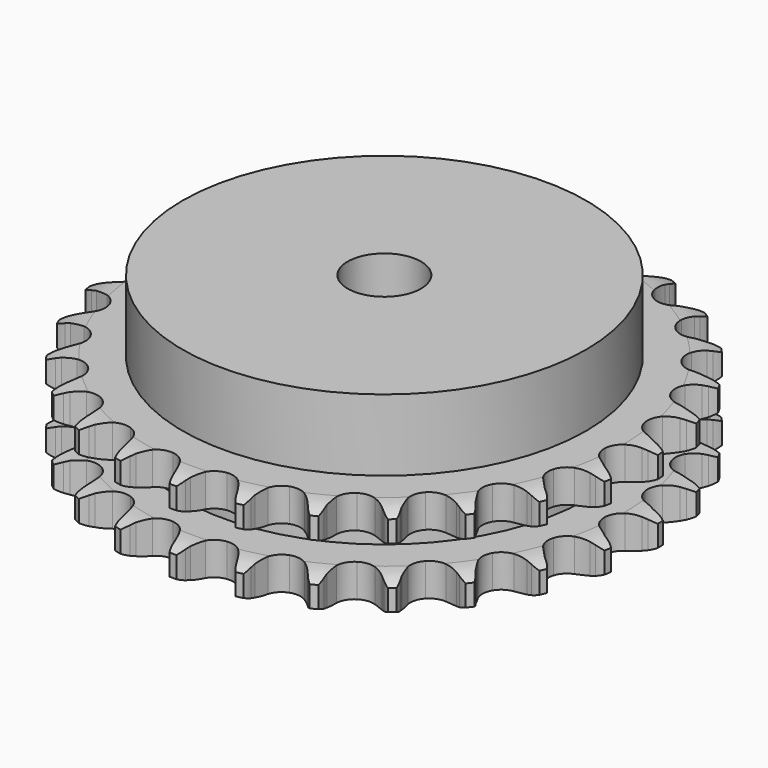
from build123d import *

# Parameters (mm, degrees)
PAD_DEPTH         = 25.5
SKETCH001_R       = 55
PAD001_DEPTH      = 45
SKETCH002_R       = 10
POCKET_DEPTH      = 0.001
POCKET_DEPTH_BACK = 45.001


with BuildPart() as part:
    # Sprocket → Pad (new body)
    with BuildSketch(Plane.XY):
        with BuildLine():
            ThreePointArc((-8.514292, 72.844425), (-7.272709, 71.413172), (-6.387729, 69.737814))
            Line((-6.387729, 69.737814), (-5.892963, 68.468562))
            ThreePointArc((-5.892963, 68.468562), (-5.105994, 66.802044), (-4.095745, 65.260615))
            ThreePointArc((-4.095745, 65.260615), (-2.286088, 63.764422), (0, 63.228459))
            ThreePointArc((0, 63.228459), (2.286088, 63.764422), (4.095745, 65.260615))
            ThreePointArc((4.095745, 65.260615), (5.105994, 66.802044), (5.892963, 68.468562))
            Line((5.892963, 68.468562), (6.387729, 69.737814))
            ThreePointArc((6.387729, 69.737814), (7.272709, 71.413172), (8.514292, 72.844425))
            ThreePointArc((8.514292, 72.844425), (9.392338, 71.165423), (9.8671, 69.331134))
            Line((9.8671, 69.331134), (10.05582, 67.981994))
            ThreePointArc((10.05582, 67.981994), (10.43725, 66.178909), (11.06479, 64.446051))
            ThreePointArc((11.06479, 64.446051), (12.480622, 62.572852), (14.581486, 61.524128))
            ThreePointArc((14.581486, 61.524128), (16.929554, 61.518436), (19.035477, 62.556963))
            Line((19.035477, 62.556963), (21.524055, 65.263972))
            ThreePointArc((21.524055, 65.263972), (21.896732, 65.834381), (22.298194, 66.38491))
            ThreePointArc((22.298194, 66.38491), (23.545683, 67.811018), (25.083869, 68.917364))
            ThreePointArc((25.083869, 68.917364), (25.551042, 67.081127), (25.58999, 65.186794))
            Line((25.58999, 65.186794), (25.46249, 63.830499))
            ThreePointArc((25.46249, 63.830499), (25.41782, 61.988052), (25.628819, 60.157183))
            ThreePointArc((25.628819, 60.157183), (26.574498, 58.007963), (28.376881, 56.503015))
            ThreePointArc((28.376881, 56.503015), (30.660343, 55.955975), (32.949002, 56.480849))
            Line((32.949002, 56.480849), (35.994779, 58.540985))
            ThreePointArc((35.994779, 58.540985), (36.488956, 59.010073), (37.006557, 59.453179))
            ThreePointArc((37.006557, 59.453179), (38.549303, 60.553155), (40.301168, 61.274949))
            ThreePointArc((40.301168, 61.274949), (40.332283, 59.380471), (39.933318, 57.528218))
            Line((39.933318, 57.528218), (39.496472, 56.237885))
            ThreePointArc((39.496472, 56.237885), (39.028108, 54.455404), (38.811192, 52.625226))
            ThreePointArc((38.811192, 52.625226), (39.235736, 50.31585), (40.64247, 48.43581))
            ThreePointArc((40.64247, 48.43581), (42.738225, 47.376913), (45.086238, 47.359837))
            Line((45.086238, 47.359837), (48.525015, 48.662038))
            ThreePointArc((48.525015, 48.662038), (49.11405, 49.004516), (49.719887, 49.316312))
            ThreePointArc((49.719887, 49.316312), (51.474721, 50.030856), (53.34582, 50.329186))
            ThreePointArc((53.34582, 50.329186), (52.9392, 48.478598), (52.12383, 46.76828))
            Line((52.12383, 46.76828), (51.401188, 45.613472))
            ThreePointArc((51.401188, 45.613472), (50.53438, 43.98705), (49.901243, 42.256229))
            ThreePointArc((49.901243, 42.256229), (49.781765, 39.911197), (50.717014, 37.757418))
            ThreePointArc((50.717014, 37.757418), (52.512079, 36.243749), (54.792862, 35.685645))
            Line((54.792862, 35.685645), (58.439255, 36.159708))
            ThreePointArc((58.439255, 36.159708), (59.091394, 36.357113), (59.752805, 36.520789))
            ThreePointArc((59.752805, 36.520789), (61.625122, 36.81138), (63.514586, 36.670163))
            ThreePointArc((63.514586, 36.670163), (62.692152, 34.963231), (61.504334, 33.487053))
            Line((61.504334, 33.487053), (60.534853, 32.530026))
            ThreePointArc((60.534853, 32.530026), (59.316331, 31.147344), (58.301106, 29.609188))
            ThreePointArc((58.301106, 29.609188), (57.644047, 27.35492), (58.05739, 25.043513))
            ThreePointArc((58.05739, 25.043513), (59.454993, 23.156675), (61.54559, 22.08763))
            Line((61.54559, 22.08763), (65.20302, 21.707999))
            ThreePointArc((65.20302, 21.707999), (65.883105, 21.749689), (66.564434, 21.756421))
            ThreePointArc((66.564434, 21.756421), (68.453298, 21.607393), (70.259264, 21.034243))
            ThreePointArc((70.259264, 21.034243), (69.065352, 19.562988), (67.569122, 18.400529))
            Line((67.569122, 18.400529), (66.405069, 17.692877))
            ThreePointArc((66.405069, 17.692877), (64.900524, 16.628476), (63.557941, 15.365908))
            ThreePointArc((63.557941, 15.365908), (62.398723, 13.323933), (62.267877, 10.979507))
            ThreePointArc((62.267877, 10.979507), (63.192673, 8.821219), (64.980378, 7.298865))
            Line((64.980378, 7.298865), (68.451673, 6.086005))
            ThreePointArc((68.451673, 6.086005), (69.123041, 5.969734), (69.787557, 5.819159))
            ThreePointArc((69.787557, 5.819159), (71.591138, 5.238547), (73.216246, 4.264361))
            ThreePointArc((73.216246, 4.264361), (71.715222, 3.108098), (69.991242, 2.322029))
            Line((69.991242, 2.322029), (68.69537, 1.9019))
            ThreePointArc((68.69537, 1.9019), (66.985912, 1.213162), (65.388351, 0.294249))
            ThreePointArc((65.388351, 0.294249), (63.789467, -1.425352), (63.121487, -3.676408))
            ThreePointArc((63.121487, -3.676408), (63.523619, -5.989791), (64.912058, -7.883383))
            Line((64.912058, -7.883383), (68.010079, -9.864086))
            ThreePointArc((68.010079, -9.864086), (68.636536, -10.132051), (69.248415, -10.431815))
            ThreePointArc((69.248415, -10.431815), (70.869481, -11.412712), (72.226122, -12.735414))
            ThreePointArc((72.226122, -12.735414), (70.498906, -13.514349), (68.640115, -13.881653))
            Line((68.640115, -13.881653), (67.282285, -13.991608))
            ThreePointArc((67.282285, -13.991608), (65.460073, -14.267553), (63.693658, -14.793274))
            ThreePointArc((63.693658, -14.793274), (61.741305, -16.097795), (60.572201, -18.134127))
            ThreePointArc((60.572201, -18.134127), (60.429991, -20.47789), (61.344312, -22.640636))
            Line((61.344312, -22.640636), (63.902044, -25.282402))
            ThreePointArc((63.902044, -25.282402), (64.449818, -25.687615), (64.976073, -26.120408))
            ThreePointArc((64.976073, -26.120408), (66.327233, -27.448708), (67.342269, -29.048619))
            ThreePointArc((67.342269, -29.048619), (65.481976, -29.408235), (63.588583, -29.336971))
            Line((63.588583, -29.336971), (62.241996, -29.130825))
            ThreePointArc((62.241996, -29.130825), (60.405264, -28.979101), (58.565223, -29.083288))
            ThreePointArc((58.565223, -29.083288), (56.364653, -29.902401), (54.757452, -31.61423))
            ThreePointArc((54.757452, -31.61423), (54.078566, -33.862021), (54.469478, -36.177327))
            Line((54.469478, -36.177327), (56.349033, -39.337737))
            ThreePointArc((56.349033, -39.337737), (56.788593, -39.858353), (57.200854, -40.400842))
            ThreePointArc((57.200854, -40.400842), (58.209266, -42.004937), (58.827977, -43.795806))
            ThreePointArc((58.827977, -43.795806), (56.934895, -43.716715), (55.108973, -43.210726))
            Line((55.108973, -43.210726), (53.846224, -42.699592))
            ThreePointArc((53.846224, -42.699592), (52.093991, -42.128378), (50.279522, -41.805414))
            ThreePointArc((50.279522, -41.805414), (47.949369, -42.094962), (45.990715, -43.390001))
            ThreePointArc((45.990715, -43.390001), (44.811752, -45.420642), (44.65818, -47.763688))
            Line((44.65818, -47.763688), (45.758231, -51.272364))
            ThreePointArc((45.758231, -51.272364), (46.06588, -51.880316), (46.341922, -52.503257))
            ThreePointArc((46.341922, -52.503257), (46.953223, -54.296669), (47.142253, -56.181949))
            ThreePointArc((47.142253, -56.181949), (45.318439, -55.668415), (43.658424, -54.754979))
            Line((43.658424, -54.754979), (42.547588, -53.966413))
            ThreePointArc((42.547588, -53.966413), (40.974318, -53.006504), (39.283239, -52.2738))
            ThreePointArc((39.283239, -52.2738), (36.949121, -52.018172), (34.744606, -52.826607))
            ThreePointArc((34.744606, -52.826607), (33.129124, -54.530623), (32.439349, -56.775097))
            Line((32.439349, -56.775097), (32.700591, -60.442885))
            ThreePointArc((32.700591, -60.442885), (32.859744, -61.105399), (32.984685, -61.775208))
            ThreePointArc((32.984685, -61.775208), (33.165919, -63.661254), (32.915078, -65.53931))
            ThreePointArc((32.915078, -65.53931), (31.258855, -64.619017), (29.854239, -63.347377))
            Line((29.854239, -63.347377), (28.955201, -62.323891))
            ThreePointArc((28.955201, -62.323891), (27.645709, -61.027035), (26.169186, -59.924091))
            ThreePointArc((26.169186, -59.924091), (23.956937, -59.137069), (21.625407, -59.415317))
            ThreePointArc((21.625407, -59.415317), (19.660497, -60.700845), (18.471703, -62.725746))
            Line((18.471703, -62.725746), (17.880054, -66.354915))
            ThreePointArc((17.880054, -66.354915), (17.882131, -67.036273), (17.849235, -67.716841))
            ThreePointArc((17.849235, -67.716841), (17.590632, -69.593844), (16.913443, -71.363428))
            ThreePointArc((16.913443, -71.363428), (15.514097, -70.085991), (14.440603, -68.524701))
            Line((14.440603, -68.524701), (13.801832, -67.321471))
            ThreePointArc((13.801832, -67.321471), (12.826713, -65.757582), (11.644346, -64.343859))
            ThreePointArc((11.644346, -64.343859), (9.673227, -63.067872), (7.340376, -62.800931))
            ThreePointArc((7.340376, -62.800931), (5.131968, -63.598669), (3.508244, -65.294833))
            Line((3.508244, -65.294833), (2.095598, -68.689733))
            ThreePointArc((2.095598, -68.689733), (1.940487, -69.353205), (1.751529, -70.007842))
            ThreePointArc((1.751529, -70.007842), (1.067029, -71.774611), (0, -73.340326))
            ThreePointArc((0, -73.340326), (-1.067029, -71.774611), (-1.751529, -70.007842))
            Line((-1.751529, -70.007842), (-2.095598, -68.689733))
            ThreePointArc((-2.095598, -68.689733), (-2.683775, -66.943122), (-3.508244, -65.294833))
            ThreePointArc((-3.508244, -65.294833), (-5.131968, -63.598669), (-7.340376, -62.800931))
            ThreePointArc((-7.340376, -62.800931), (-9.673227, -63.067872), (-11.644346, -64.343859))
            Line((-11.644346, -64.343859), (-13.801832, -67.321471))
            ThreePointArc((-13.801832, -67.321471), (-14.105769, -67.931288), (-14.440603, -68.524701))
            ThreePointArc((-14.440603, -68.524701), (-15.514097, -70.085991), (-16.913443, -71.363428))
            ThreePointArc((-16.913443, -71.363428), (-17.590632, -69.593844), (-17.849235, -67.716841))
            Line((-17.849235, -67.716841), (-17.880054, -66.354915))
            ThreePointArc((-17.880054, -66.354915), (-18.04958, -64.51974), (-18.471703, -62.725746))
            ThreePointArc((-18.471703, -62.725746), (-19.660497, -60.700845), (-21.625407, -59.415317))
            ThreePointArc((-21.625407, -59.415317), (-23.956937, -59.137069), (-26.169186, -59.924091))
            Line((-26.169186, -59.924091), (-28.955201, -62.323891))
            ThreePointArc((-28.955201, -62.323891), (-29.391579, -62.847177), (-29.854239, -63.347377))
            ThreePointArc((-29.854239, -63.347377), (-31.258855, -64.619017), (-32.915078, -65.53931))
            ThreePointArc((-32.915078, -65.53931), (-33.165919, -63.661254), (-32.984685, -61.775208))
            Line((-32.984685, -61.775208), (-32.700591, -60.442885))
            ThreePointArc((-32.700591, -60.442885), (-32.442327, -58.618083), (-32.439349, -56.775097))
            ThreePointArc((-32.439349, -56.775097), (-33.129124, -54.530623), (-34.744606, -52.826607))
            ThreePointArc((-34.744606, -52.826607), (-36.949121, -52.018172), (-39.283239, -52.2738))
            Line((-39.283239, -52.2738), (-42.547588, -53.966413))
            ThreePointArc((-42.547588, -53.966413), (-43.092882, -54.374958), (-43.658424, -54.754979))
            ThreePointArc((-43.658424, -54.754979), (-45.318439, -55.668415), (-47.142253, -56.181949))
            ThreePointArc((-47.142253, -56.181949), (-46.953223, -54.296669), (-46.341922, -52.503257))
            Line((-46.341922, -52.503257), (-45.758231, -51.272364))
            ThreePointArc((-45.758231, -51.272364), (-45.0861, -49.556309), (-44.65818, -47.763688))
            ThreePointArc((-44.65818, -47.763688), (-44.811752, -45.420642), (-45.990715, -43.390001))
            ThreePointArc((-45.990715, -43.390001), (-47.949369, -42.094962), (-50.279522, -41.805414))
            Line((-50.279522, -41.805414), (-53.846224, -42.699592))
            ThreePointArc((-53.846224, -42.699592), (-54.471036, -42.971372), (-55.108973, -43.210726))
            ThreePointArc((-55.108973, -43.210726), (-56.934895, -43.716715), (-58.827977, -43.795806))
            ThreePointArc((-58.827977, -43.795806), (-58.209266, -42.004937), (-57.200854, -40.400842))
            Line((-57.200854, -40.400842), (-56.349033, -39.337737))
            ThreePointArc((-56.349033, -39.337737), (-55.29927, -37.822942), (-54.469478, -36.177327))
            ThreePointArc((-54.469478, -36.177327), (-54.078566, -33.862021), (-54.757452, -31.61423))
            ThreePointArc((-54.757452, -31.61423), (-56.364653, -29.902401), (-58.565223, -29.083288))
            Line((-58.565223, -29.083288), (-62.241996, -29.130825))
            ThreePointArc((-62.241996, -29.130825), (-62.912642, -29.251188), (-63.588583, -29.336971))
            ThreePointArc((-63.588583, -29.336971), (-65.481976, -29.408235), (-67.342269, -29.048619))
            ThreePointArc((-67.342269, -29.048619), (-66.327233, -27.448708), (-64.976073, -26.120408))
            Line((-64.976073, -26.120408), (-63.902044, -25.282402))
            ThreePointArc((-63.902044, -25.282402), (-62.531242, -24.050531), (-61.344312, -22.640636))
            ThreePointArc((-61.344312, -22.640636), (-60.429991, -20.47789), (-60.572201, -18.134127))
            ThreePointArc((-60.572201, -18.134127), (-61.741305, -16.097795), (-63.693658, -14.793274))
            Line((-63.693658, -14.793274), (-67.282285, -13.991608))
            ThreePointArc((-67.282285, -13.991608), (-67.962612, -13.954064), (-68.640115, -13.881653))
            ThreePointArc((-68.640115, -13.881653), (-70.498906, -13.514349), (-72.226122, -12.735414))
            ThreePointArc((-72.226122, -12.735414), (-70.869481, -11.412712), (-69.248415, -10.431815))
            Line((-69.248415, -10.431815), (-68.010079, -9.864086))
            ThreePointArc((-68.010079, -9.864086), (-66.392138, -8.981549), (-64.912058, -7.883383))
            ThreePointArc((-64.912058, -7.883383), (-63.523619, -5.989791), (-63.121487, -3.676408))
            ThreePointArc((-63.121487, -3.676408), (-63.789467, -1.425352), (-65.388351, 0.294249))
            Line((-65.388351, 0.294249), (-68.69537, 1.9019))
            ThreePointArc((-68.69537, 1.9019), (-69.3487, 2.095326), (-69.991242, 2.322029))
            ThreePointArc((-69.991242, 2.322029), (-71.715222, 3.108098), (-73.216246, 4.264361))
            ThreePointArc((-73.216246, 4.264361), (-71.591138, 5.238547), (-69.787557, 5.819159))
            Line((-69.787557, 5.819159), (-68.451673, 6.086005))
            ThreePointArc((-68.451673, 6.086005), (-66.673817, 6.571631), (-64.980378, 7.298865))
            ThreePointArc((-64.980378, 7.298865), (-63.192673, 8.821219), (-62.267877, 10.979507))
            ThreePointArc((-62.267877, 10.979507), (-62.398723, 13.323933), (-63.557941, 15.365908))
            Line((-63.557941, 15.365908), (-66.405069, 17.692877))
            ThreePointArc((-66.405069, 17.692877), (-66.996181, 18.031757), (-67.569122, 18.400529))
            ThreePointArc((-67.569122, 18.400529), (-69.065352, 19.562988), (-70.259264, 21.034243))
            ThreePointArc((-70.259264, 21.034243), (-68.453298, 21.607393), (-66.564434, 21.756421))
            Line((-66.564434, 21.756421), (-65.20302, 21.707999))
            ThreePointArc((-65.20302, 21.707999), (-63.361093, 21.770532), (-61.54559, 22.08763))
            ThreePointArc((-61.54559, 22.08763), (-59.454993, 23.156675), (-58.05739, 25.043513))
            ThreePointArc((-58.05739, 25.043513), (-57.644047, 27.35492), (-58.301106, 29.609188))
            Line((-58.301106, 29.609188), (-60.534853, 32.530026))
            ThreePointArc((-60.534853, 32.530026), (-61.031881, 32.996092), (-61.504334, 33.487053))
            ThreePointArc((-61.504334, 33.487053), (-62.692152, 34.963231), (-63.514586, 36.670163))
            ThreePointArc((-63.514586, 36.670163), (-61.625122, 36.81138), (-59.752805, 36.520789))
            Line((-59.752805, 36.520789), (-58.439255, 36.159708))
            ThreePointArc((-58.439255, 36.159708), (-56.632557, 35.795778), (-54.792862, 35.685645))
            ThreePointArc((-54.792862, 35.685645), (-52.512079, 36.243749), (-50.717014, 37.757418))
            ThreePointArc((-50.717014, 37.757418), (-49.781765, 39.911197), (-49.901243, 42.256229))
            Line((-49.901243, 42.256229), (-51.401188, 45.613472))
            ThreePointArc((-51.401188, 45.613472), (-51.777336, 46.181598), (-52.12383, 46.76828))
            ThreePointArc((-52.12383, 46.76828), (-52.9392, 48.478598), (-53.34582, 50.329186))
            ThreePointArc((-53.34582, 50.329186), (-51.474721, 50.030856), (-49.719887, 49.316312))
            Line((-49.719887, 49.316312), (-48.525015, 48.662038))
            ThreePointArc((-48.525015, 48.662038), (-46.850944, 47.891265), (-45.086238, 47.359837))
            ThreePointArc((-45.086238, 47.359837), (-42.738225, 47.376913), (-40.64247, 48.43581))
            ThreePointArc((-40.64247, 48.43581), (-39.235736, 50.31585), (-38.811192, 52.625226))
            Line((-38.811192, 52.625226), (-39.496472, 56.237885))
            ThreePointArc((-39.496472, 56.237885), (-39.731462, 56.877443), (-39.933318, 57.528218))
            ThreePointArc((-39.933318, 57.528218), (-40.332283, 59.380471), (-40.301168, 61.274949))
            ThreePointArc((-40.301168, 61.274949), (-38.549303, 60.553155), (-37.006557, 59.453179))
            Line((-37.006557, 59.453179), (-35.994779, 58.540985))
            ThreePointArc((-35.994779, 58.540985), (-34.543585, 57.404921), (-32.949002, 56.480849))
            ThreePointArc((-32.949002, 56.480849), (-30.660343, 55.955975), (-28.376881, 56.503015))
            ThreePointArc((-28.376881, 56.503015), (-26.574498, 58.007963), (-25.628819, 60.157183))
            Line((-25.628819, 60.157183), (-25.46249, 63.830499))
            ThreePointArc((-25.46249, 63.830499), (-25.543654, 64.507009), (-25.58999, 65.186794))
            ThreePointArc((-25.58999, 65.186794), (-25.551042, 67.081127), (-25.083869, 68.917364))
            ThreePointArc((-25.083869, 68.917364), (-23.545683, 67.811018), (-22.298194, 66.38491))
            Line((-22.298194, 66.38491), (-21.524055, 65.263972))
            ThreePointArc((-21.524055, 65.263972), (-20.373973, 63.823863), (-19.035477, 62.556963))
            ThreePointArc((-19.035477, 62.556963), (-16.929554, 61.518436), (-14.581486, 61.524128))
            ThreePointArc((-14.581486, 61.524128), (-12.480622, 62.572852), (-11.06479, 64.446051))
            Line((-11.06479, 64.446051), (-10.05582, 67.981994))
            ThreePointArc((-10.05582, 67.981994), (-9.978782, 68.658987), (-9.8671, 69.331134))
            ThreePointArc((-9.8671, 69.331134), (-9.392338, 71.165423), (-8.514292, 72.844425))
        make_face()
    extrude(amount=PAD_DEPTH)

    # Sketch → Groove (revolve, cut)
    with BuildSketch(Plane.XZ):
        with BuildLine():
            ThreePointArc((65.025762, 0), (68.60347, 0.405129), (72, 1.6))
            Line((72, 1.6), (72, 7.4))
            ThreePointArc((72, 7.4), (68.60347, 8.594871), (65.025762, 9))
            Line((55, 9), (65.025762, 9))
            Line((55, 16.5), (55, 9))
            Line((65.025762, 16.5), (55, 16.5))
            ThreePointArc((65.025762, 16.5), (68.60347, 16.905129), (72, 18.1))
            Line((72, 18.1), (72, 23.9))
            ThreePointArc((72, 23.9), (68.60347, 25.094871), (65.025762, 25.5))
            Line((65.025762, 25.5), (75.025762, 25.5))
            Line((75.025762, 25.5), (75.025762, 0))
            Line((65.025762, 0), (75.025762, 0))
        make_face()
    revolve(axis=Axis((0, 0, 0), (0, 0, 1)), mode=Mode.SUBTRACT)

    # Sketch001 → Pad001 (join)
    with BuildSketch(Plane.XY):
        Circle(SKETCH001_R)
    extrude(amount=PAD001_DEPTH)

    # Sketch002 → Pocket (cut, two sides)
    with BuildSketch(Plane.XY) as pocket_sk:
        Circle(SKETCH002_R)
    extrude(amount=-POCKET_DEPTH, mode=Mode.SUBTRACT)
    extrude(pocket_sk.sketch, amount=POCKET_DEPTH_BACK, mode=Mode.SUBTRACT)


solid = part.part
